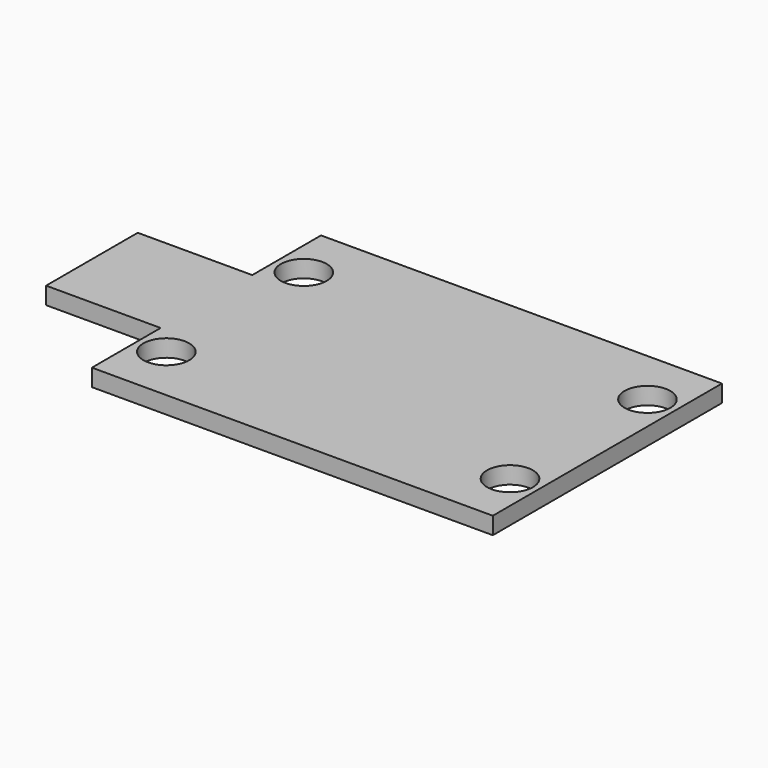
from build123d import *

# Parameters (mm, degrees)
SKETCH003_W      = 8
SKETCH003_H      = 2
EXTRUDE001_DEPTH = 1
EXTRUDE_DEPTH    = 3
SKETCH002_R      = 4
POCKET_DEPTH     = 3
POCKET001_DEPTH  = 0.5


with BuildPart() as extrude001:
    # Sketch003 → Extrude001 (new body)
    with BuildSketch(Plane(origin=(0, 0, 0), x_dir=(1, 0, 0), z_dir=(0, 0, -1))):
        with Locations((4, 7)):
            Rectangle(SKETCH003_W, SKETCH003_H)
        with Locations((4, 3)):
            Rectangle(SKETCH003_W, SKETCH003_H)
        with Locations((4, -3)):
            Rectangle(SKETCH003_W, SKETCH003_H)
        with Locations((4, -7)):
            Rectangle(SKETCH003_W, SKETCH003_H)
    extrude(amount=EXTRUDE001_DEPTH)


with BuildPart() as pocket001:
    # Sketch → Extrude (new body)
    with BuildSketch(Plane.XY):
        Polygon((0, 10), (0, -10), (20, -10), (20, -25), (90, -25), (90, 25), (20, 25), (20, 10), align=None)
    extrude(amount=EXTRUDE_DEPTH)

    # Sketch002 → Pocket (cut)
    with BuildSketch(Plane(origin=(0, 0, 0), x_dir=(1, 0, 0), z_dir=(0, 0, -1))):
        with Locations((25, 15)):
            Circle(SKETCH002_R)
        with Locations((25, -15)):
            Circle(SKETCH002_R)
        with Locations((85, -15)):
            Circle(SKETCH002_R)
        with Locations((85, 15)):
            Circle(SKETCH002_R)
    extrude(amount=-POCKET_DEPTH, mode=Mode.SUBTRACT)

    # Sketch004 → Pocket001 (cut)
    with BuildSketch(Plane(origin=(0, 0, 0), x_dir=(1, 0, 0), z_dir=(0, 0, -1))):
        Polygon((30, 19), (30, -19), (57, -19), (57, 17), (78, 17), (78, -19), (80, -19), (80, 19), (55, 19), (55, -17), (32, -17), (32, 19), align=None)
    extrude(amount=-POCKET001_DEPTH, mode=Mode.SUBTRACT)


solid = Compound([extrude001.part, pocket001.part])
